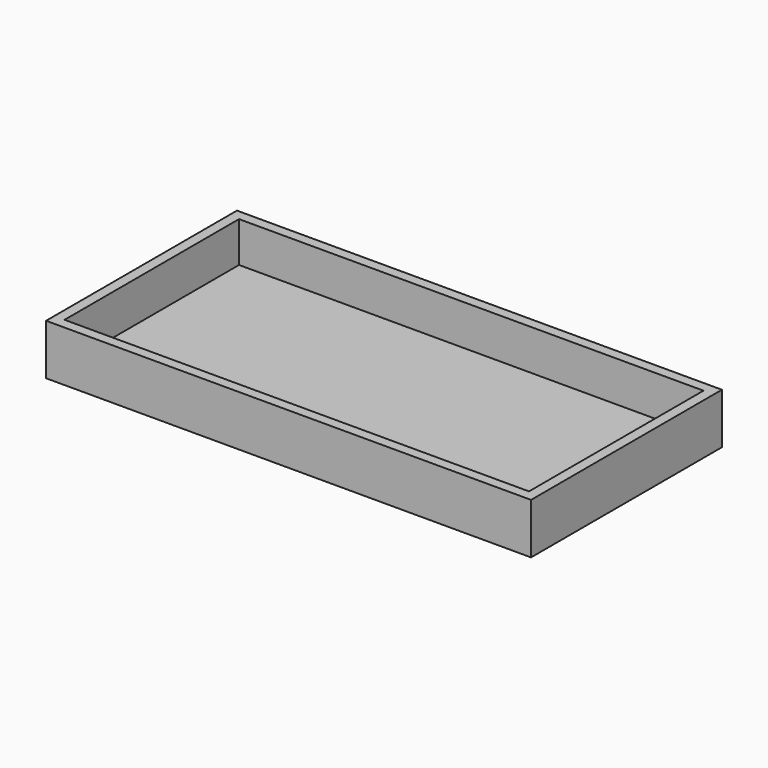
from build123d import *

# Parameters (mm, degrees)
F0_W     = 115.000024
F0_H     = 53.999892
F1_DEPTH = 10
F2_T     = 2.54


with BuildPart() as f1:
    # F0 (on Top) → F1 (new body)
    with BuildSketch(Plane.XY):
        with Locations((6.700012, 0.2917969662)):
            Rectangle(F0_W, F0_H)
    extrude(amount=F1_DEPTH)

    # F2
    f2_openings = [f1.faces().sort_by_distance(p)[0] for p in [
        (6.700012, 0.291797, 10),
    ]]
    offset(amount=F2_T, openings=f2_openings, kind=Kind.INTERSECTION)


solid = f1.part
